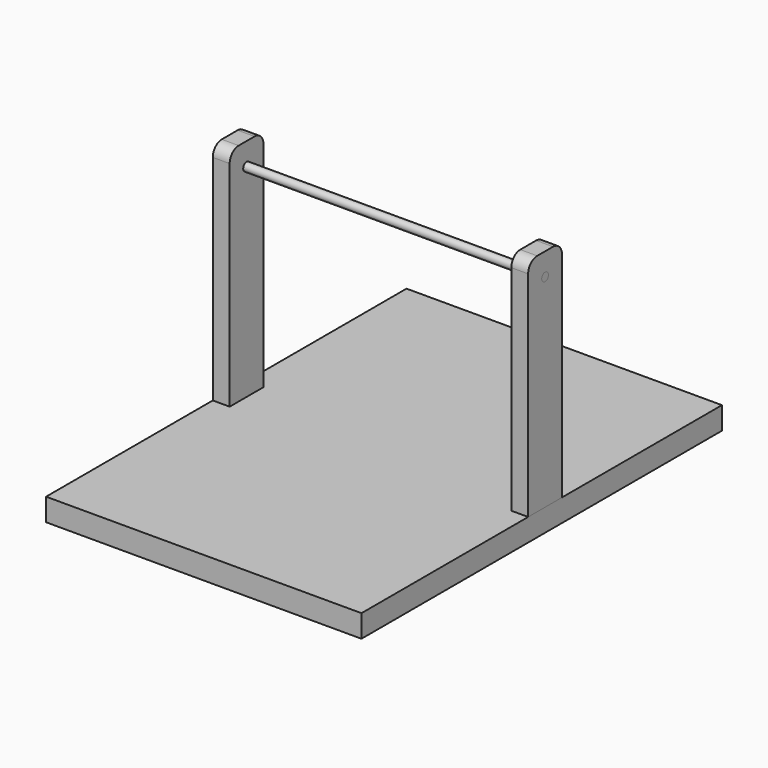
from build123d import *

# Parameters (mm, degrees)
F0_W     = 711.2
F0_H     = 50.8
F1_DEPTH = 1016
F3_DEPTH = 38.1
F5_DEPTH = 38.1
F6_R     = 9.525
F7_DEPTH = 711.2


with BuildPart() as f1:
    # F0 (on Front) → F1 (new body)
    with BuildSketch(Plane.XZ):
        with Locations((292.695218, 9.588178)):
            Rectangle(F0_W, F0_H)
    extrude(amount=F1_DEPTH)


with BuildPart() as f3:
    # F2 (on face) → F3 (new body)
    with BuildSketch(Plane(origin=(-62.904782, 0, 0), x_dir=(0, -1, 0), z_dir=(-1, 0, 0))):
        with BuildLine():
            ThreePointArc((508, 492.188178), (505.210192, 498.92337), (498.475, 501.713178))
            ThreePointArc((498.475, 501.713178), (491.739808, 485.452986), (508, 492.188178))
        make_face()
        with BuildLine():
            Line((450.85, 517.588178), (450.85, 34.988178))
            Line((450.85, 34.988178), (546.1, 34.988178))
            Line((546.1, 34.988178), (546.1, 517.588178))
            ThreePointArc((546.1, 517.588178), (538.660512, 535.548691), (520.7, 542.988178))
            Line((520.7, 542.988178), (498.475, 542.988178))
            Line((498.475, 542.988178), (476.25, 542.988178))
            ThreePointArc((476.25, 542.988178), (458.289488, 535.548691), (450.85, 517.588178))
        make_face()
        with BuildLine():
            ThreePointArc((508, 492.188178), (491.739808, 485.452986), (498.475, 501.713178))
            ThreePointArc((498.475, 501.713178), (505.210192, 498.92337), (508, 492.188178))
        make_face(mode=Mode.SUBTRACT)
    extrude(amount=-F3_DEPTH)


with BuildPart() as f5:
    # F4 (on face) → F5 (new body)
    with BuildSketch(Plane.YZ.offset(648.295218)):
        with BuildLine():
            Line((-546.1, 517.588178), (-546.1, 34.988178))
            Line((-546.1, 34.988178), (-450.85, 34.988178))
            Line((-450.85, 34.988178), (-450.85, 517.588178))
            ThreePointArc((-450.85, 517.588178), (-458.289488, 535.548691), (-476.25, 542.988178))
            Line((-476.25, 542.988178), (-498.475, 542.988178))
            Line((-498.475, 542.988178), (-520.7, 542.988178))
            ThreePointArc((-520.7, 542.988178), (-538.660512, 535.548691), (-546.1, 517.588178))
        make_face()
        with BuildLine():
            ThreePointArc((-488.95, 492.188178), (-505.210192, 485.452986), (-498.475, 501.713178))
            ThreePointArc((-498.475, 501.713178), (-491.739808, 498.92337), (-488.95, 492.188178))
        make_face(mode=Mode.SUBTRACT)
    extrude(amount=-F5_DEPTH)


with BuildPart() as f7:
    # F6 (on face) → F7 (new body)
    with BuildSketch(Plane.YZ.offset(-24.804782)):
        with Locations((-498.475, 492.188178)):
            Circle(F6_R)
    extrude(amount=F7_DEPTH)


with BuildPart() as f7_1:
    # F8: moved
    add(f7.part.moved(Location((-38.1, 0, 0))))


solid = Compound([f1.part, f3.part, f5.part, f7_1.part])
